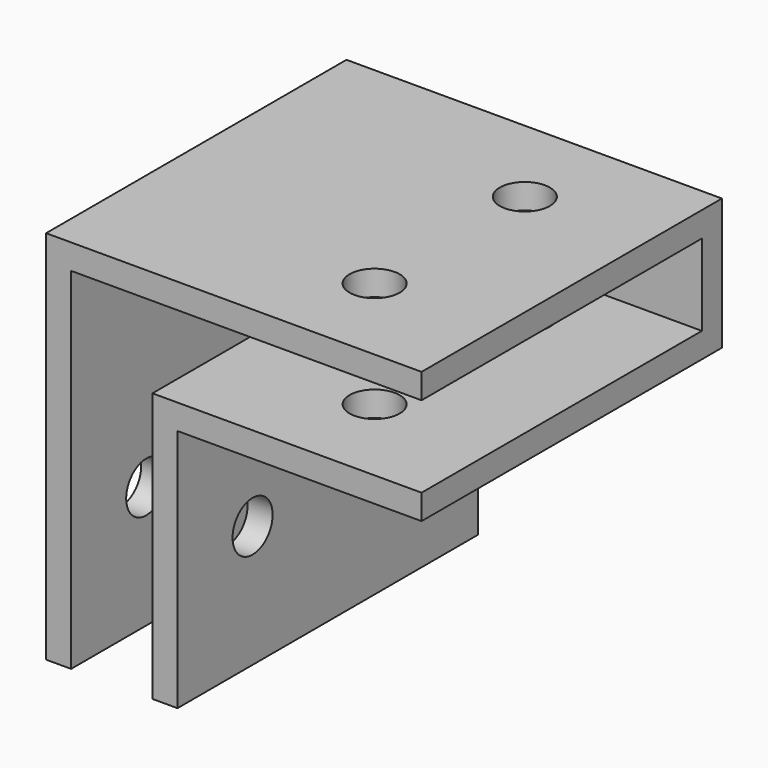
from build123d import *

# Parameters (mm, degrees)
F2_W     = 28
F2_H     = 2
F2_W_2   = 2
F2_W_3   = 19.5
F2_H_2   = 19.5
F3_DEPTH = 2
F4_DEPTH = 30
F5_R     = 2
F6_DEPTH = 25
F7_R     = 2
F8_DEPTH = 25


with BuildPart() as f3:
    # F2 (on Front) → F3 (new body)
    with BuildSketch(Plane.XZ):
        with Locations((14, 1)):
            Rectangle(F2_W, F2_H)
        Polygon((28, 0), (0, 0), (0, -6.5), (6.5, -6.5), (8.5, -6.5), (28, -6.5), align=None)
        with Locations((-1, 1)):
            Rectangle(F2_W_2, F2_H)
        Polygon((0, -6.5), (0, 0), (-2, 0), (-2, -28), (0, -28), align=None)
        Polygon((6.5, -6.5), (0, -6.5), (0, -28), (6.5, -28), (6.5, -8.5), align=None)
        with Locations((18.25, -7.5)):
            Rectangle(F2_W_3, F2_H)
        with Locations((7.5, -7.5)):
            Rectangle(F2_W_2, F2_H)
        with Locations((7.5, -18.25)):
            Rectangle(F2_W_2, F2_H_2)
    extrude(amount=F3_DEPTH)

    # F2 (on Front) → F4 (join)
    with BuildSketch(Plane.XZ):
        with Locations((14, 1)):
            Rectangle(F2_W, F2_H)
        with Locations((-1, 1)):
            Rectangle(F2_W_2, F2_H)
        Polygon((0, -6.5), (0, 0), (-2, 0), (-2, -28), (0, -28), align=None)
        with Locations((18.25, -7.5)):
            Rectangle(F2_W_3, F2_H)
        with Locations((7.5, -7.5)):
            Rectangle(F2_W_2, F2_H)
        with Locations((7.5, -18.25)):
            Rectangle(F2_W_2, F2_H_2)
    extrude(amount=F4_DEPTH)

    # F5 (on face) → F6 (cut)
    with BuildSketch(Plane(origin=(0, 0, -8.5), x_dir=(1, 0, 0), z_dir=(0, 0, -1))):
        with Locations((18.25, 22.5)):
            Circle(F5_R)
        with Locations((18.25, 7.5)):
            Circle(F5_R)
    extrude(amount=-F6_DEPTH, mode=Mode.SUBTRACT)

    # F7 (on face) → F8 (cut)
    with BuildSketch(Plane.YZ.offset(8.5)):
        with Locations((-22.5, -18.25)):
            Circle(F7_R)
        with Locations((-7.5, -18.25)):
            Circle(F7_R)
    extrude(amount=-F8_DEPTH, mode=Mode.SUBTRACT)


solid = f3.part
